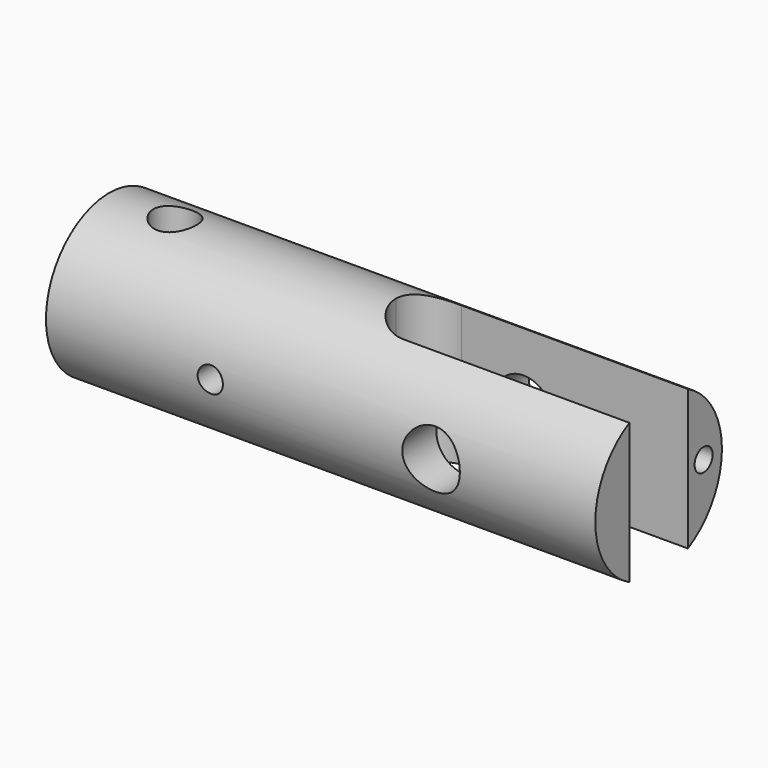
from build123d import *

# Parameters (mm, degrees)
F0_R      = 7.6454
F1_DEPTH  = 53.086
F4_DEPTH  = 15.5204
F5_R      = 3.96875
F6_DEPTH  = 22.225
F7_R      = 2.0828
F8_DEPTH  = 7.62
F9_R      = 1.0922
F10_DEPTH = 7.874
F12_R     = 2.7813
F13_DEPTH = 15.5204
F14_R     = 1.2192
F15_DEPTH = 15.5204


with BuildPart() as f1:
    # F0 (on Right) → F1 (new body)
    with BuildSketch(Plane.YZ):
        Circle(F0_R)
    extrude(amount=-F1_DEPTH)

    # F3 (on offset) → F4 (cut, through all)
    with BuildSketch(Plane.XY.offset(7.874)):
        with BuildLine():
            Line((25.4, 3.5306), (-21.8694, 3.5306))
            ThreePointArc((-21.8694, 3.5306), (-24.365911, 2.496511), (-25.4, 0))
            ThreePointArc((-25.4, 0), (-24.365911, -2.496511), (-21.8694, -3.5306))
            Line((-21.8694, -3.5306), (25.4, -3.5306))
            Line((25.4, -3.5306), (25.4, 3.5306))
        make_face()
    extrude(amount=-F4_DEPTH, mode=Mode.SUBTRACT)

    # F5 (on face) → F6 (cut)
    with BuildSketch(Plane(origin=(-53.086, 0, 0), x_dir=(0, -1, 0), z_dir=(-1, 0, 0))):
        Circle(F5_R)
    extrude(amount=-F6_DEPTH, mode=Mode.SUBTRACT)

    # F7 (on offset) → F8 (cut)
    with BuildSketch(Plane.XY.offset(7.874)):
        with Locations((-46.736, 0)):
            Circle(F7_R)
    extrude(amount=-F8_DEPTH, mode=Mode.SUBTRACT)

    # F9 (on face) → F10 (cut)
    with BuildSketch(Plane.YZ):
        with Locations((5.4356, 0)):
            Circle(F9_R)
    extrude(amount=-F10_DEPTH, mode=Mode.SUBTRACT)

    # F12 (on offset) → F13 (cut, through all)
    with BuildSketch(Plane.XZ.offset(7.874)):
        with Locations((-15.875, 0)):
            Circle(F12_R)
    extrude(amount=-F13_DEPTH, mode=Mode.SUBTRACT)

    # F14 (on offset) → F15 (cut, through all)
    with BuildSketch(Plane.XZ.offset(7.874)):
        with Locations((-37.211, 0)):
            Circle(F14_R)
    extrude(amount=-F15_DEPTH, mode=Mode.SUBTRACT)


solid = f1.part
